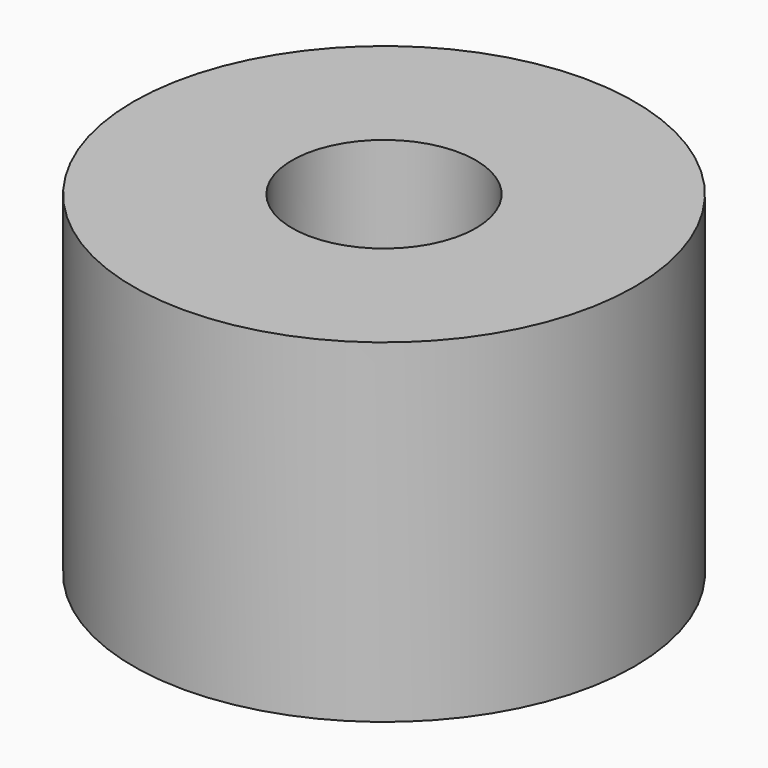
from build123d import *

# Parameters (mm, degrees)
CYLINDER1385_R     = 1
CYLINDER1385_DEPTH = 20
CYLINDER1387_R     = 1
CYLINDER1387_DEPTH = 20
CYLINDER1388_R     = 1
CYLINDER1388_DEPTH = 20
CYLINDER1381_R     = 1
CYLINDER1381_DEPTH = 20
TUBE127_R          = 7.5
TUBE127_R_2        = 2.75
TUBE127_DEPTH      = 10


with BuildPart() as obj1:
    # Cylinder1385 → Cylinder1385 (new body)
    with BuildSketch(Plane(origin=(4, -4, -88), x_dir=(0, 1, 0), z_dir=(0, 0, 1))):
        Circle(CYLINDER1385_R)
    extrude(amount=CYLINDER1385_DEPTH)


with BuildPart() as obj2:
    # Cylinder1387 → Cylinder1387 (new body)
    with BuildSketch(Plane(origin=(4, 4, -88), x_dir=(-1, 0, 0), z_dir=(0, 0, 1))):
        Circle(CYLINDER1387_R)
    extrude(amount=CYLINDER1387_DEPTH)


with BuildPart() as obj3:
    # Cylinder1388 → Cylinder1388 (new body)
    with BuildSketch(Plane(origin=(-4, 4, -88), x_dir=(0, -1, 0), z_dir=(0, 0, 1))):
        Circle(CYLINDER1388_R)
    extrude(amount=CYLINDER1388_DEPTH)


with BuildPart() as compound955:
    # Cylinder1381 → Cylinder1381 (new body)
    with BuildSketch(Plane(origin=(-4, -4, -88), x_dir=(1, 0, 0), z_dir=(0, 0, 1))):
        Circle(CYLINDER1381_R)
    extrude(amount=CYLINDER1381_DEPTH)

    # Compound955: union obj1, obj2, obj3
    add(obj1.part)
    add(obj2.part)
    add(obj3.part)


with BuildPart() as compound955_1:
    # Compound955 placement: moved
    add(compound955.part.moved(Location((0, 0, 91))))


with BuildPart() as cut498:
    # Tube127 → Tube127 (new body)
    with BuildSketch(Plane.XY.offset(19)):
        Circle(TUBE127_R)
        Circle(TUBE127_R_2, mode=Mode.SUBTRACT)
    extrude(amount=TUBE127_DEPTH)

    # Cut498: cut Compound955
    add(compound955_1.part, mode=Mode.SUBTRACT)


solid = cut498.part
